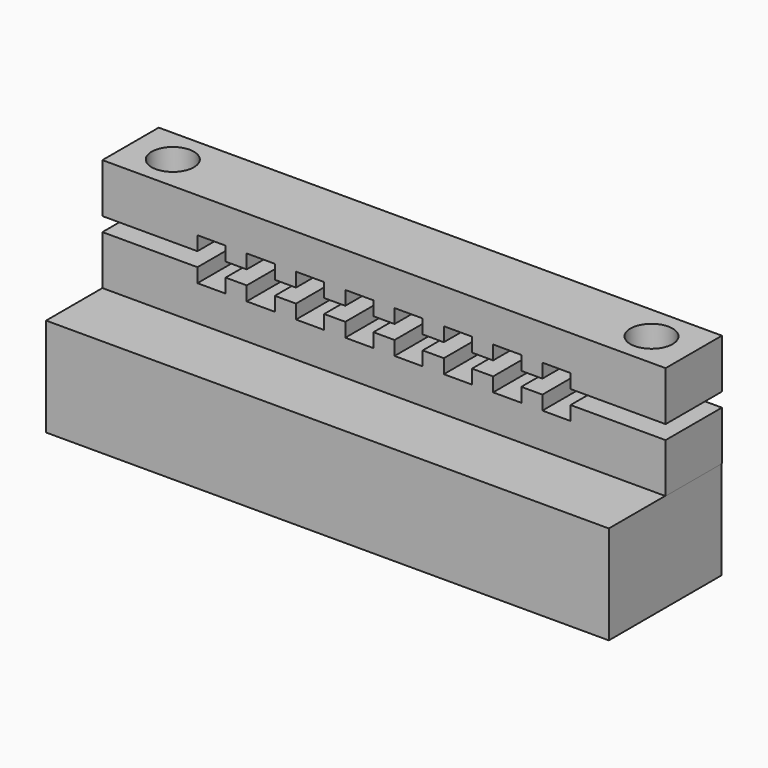
from build123d import *

# Parameters (mm, degrees)
F1_DEPTH         = 10
F3_D             = 3
F3_DEPTH         = 15
F3_CBORE_D       = 6
F3_CBORE_DEPTH   = 5
F3_TIP           = 0.9012909285
F3_2_D           = 3
F3_2_DEPTH       = 15
F3_2_CBORE_D     = 6
F3_2_CBORE_DEPTH = 5
F3_2_TIP         = 0.9012909285
F0_W             = 79.936705776
F0_H             = 13.9998569222
F4_DEPTH         = 20


with BuildPart() as f1:
    # F0 (on Front) → F1 (new body)
    with BuildSketch(Plane.XZ):
        Polygon((0, 9), (13.5, 9), (13.5, 11), (17.5, 11), (17.5, 9), (20.5, 9), (20.5, 11), (24.5, 11), (24.5, 9), (27.5, 9), (27.5, 10.9958891446), (31.5, 10.9958891446), (31.5, 9), (34.5, 9), (34.5, 10.9885419408), (38.5, 10.9885419408), (38.5, 9), (41.5, 9), (41.5, 10.9958891446), (45.5, 10.9958891446), (45.5, 9), (48.5, 9), (48.5, 11), (52.5, 11), (52.5, 9), (55.5, 9), (55.5, 10.9961733073), (59.5, 10.9961733073), (59.5, 9), (62.5, 9), (62.5, 11), (66.5, 11), (66.5, 9), (80, 9), (80, 16), (0, 16), align=None)
    extrude(amount=F1_DEPTH)

    # F3
    with Locations(Plane.XY.offset(16)):
        with Locations((6, -5), (74, -5)):
            CounterBoreHole(F3_D / 2, F3_CBORE_D / 2, F3_CBORE_DEPTH, depth=F3_DEPTH)
            with Locations((0, 0, -(F3_DEPTH + F3_TIP / 2))):  # 118° drill point
                Cone(0, F3_D / 2, F3_TIP, mode=Mode.SUBTRACT)


with BuildPart() as f1b:
    # F0 (on Front) → F1, piece 2 (new body)
    with BuildSketch(Plane.XZ):
        Polygon((0, 7), (0, 0), (79.936705776, 0), (80, 0), (80, 7), (66.5, 7), (66.5, 5), (62.5, 5), (62.5, 7), (59.5, 7), (59.5, 5.0038266927), (55.5, 5.0038266927), (55.5, 7), (52.5, 7), (52.5, 5), (48.5, 5), (48.5, 7), (45.5, 7), (45.5, 5.0041108554), (41.5, 5.0041108554), (41.5, 7), (38.5, 7), (38.5, 5.0114580592), (34.5, 5.0114580592), (34.5, 7), (31.5, 7), (31.5, 5.0041108554), (27.5, 5.0041108554), (27.5, 7), (24.5, 7), (24.5, 5), (20.5, 5), (20.5, 7), (17.5, 7), (17.5, 5), (13.5, 5), (13.5, 7), align=None)
    extrude(amount=F1_DEPTH)

    # F3#2
    with Locations(Plane.XY.offset(16)):
        with Locations((6, -5), (74, -5)):
            CounterBoreHole(F3_2_D / 2, F3_2_CBORE_D / 2, F3_2_CBORE_DEPTH, depth=F3_2_DEPTH)
            with Locations((0, 0, -(F3_2_DEPTH + F3_2_TIP / 2))):  # 118° drill point
                Cone(0, F3_2_D / 2, F3_2_TIP, mode=Mode.SUBTRACT)

    # F0 (on Front) → F4 (join)
    with BuildSketch(Plane.XZ):
        with Locations((39.968352888, -6.9999284611)):
            Rectangle(F0_W, F0_H)
    extrude(amount=F4_DEPTH)


solid = Compound([f1.part, f1b.part])
